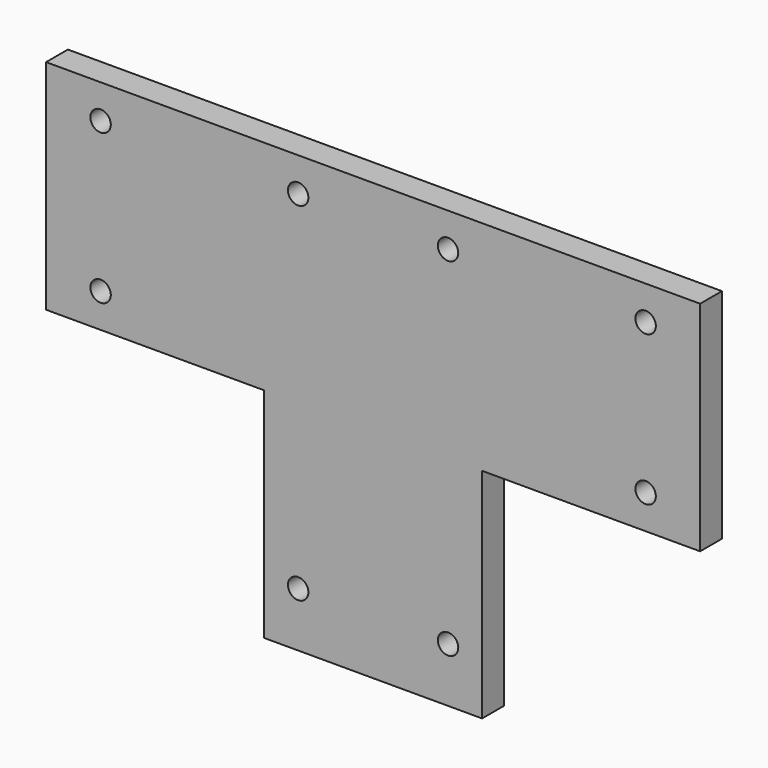
from build123d import *

# Parameters (mm, degrees)
F0_W     = 101.6
F0_H     = 50.8
F0_R     = 4.7625
F1_DEPTH = 12.7


with BuildPart() as f1:
    # F0 (on Front) → F1 (new body)
    with BuildSketch(Plane.XZ):
        with Locations((0, 76.2)):
            Rectangle(F0_W, F0_H)
        with Locations((-34.925, 85.725)):
            Circle(F0_R, mode=Mode.SUBTRACT)
        with Locations((34.925, 85.725)):
            Circle(F0_R, mode=Mode.SUBTRACT)
        with Locations((101.6, 76.2)):
            Rectangle(F0_W, F0_H)
        with Locations((127, 85.725)):
            Circle(F0_R, mode=Mode.SUBTRACT)
        with Locations((-101.6, 76.2)):
            Rectangle(F0_W, F0_H)
        with Locations((-127, 85.725)):
            Circle(F0_R, mode=Mode.SUBTRACT)
        with Locations((101.6, 25.4)):
            Rectangle(F0_W, F0_H)
        with Locations((127, 15.875)):
            Circle(F0_R, mode=Mode.SUBTRACT)
        Polygon((50.8, 0), (50.8, 50.8), (-50.8, 50.8), (-50.8, 0), (-50.8, -101.6), (50.8, -101.6), align=None)
        with Locations((-34.925, -76.2)):
            Circle(F0_R, mode=Mode.SUBTRACT)
        with Locations((34.925, -76.2)):
            Circle(F0_R, mode=Mode.SUBTRACT)
        with Locations((-101.6, 25.4)):
            Rectangle(F0_W, F0_H)
        with Locations((-127, 15.875)):
            Circle(F0_R, mode=Mode.SUBTRACT)
    extrude(amount=F1_DEPTH)


solid = f1.part
